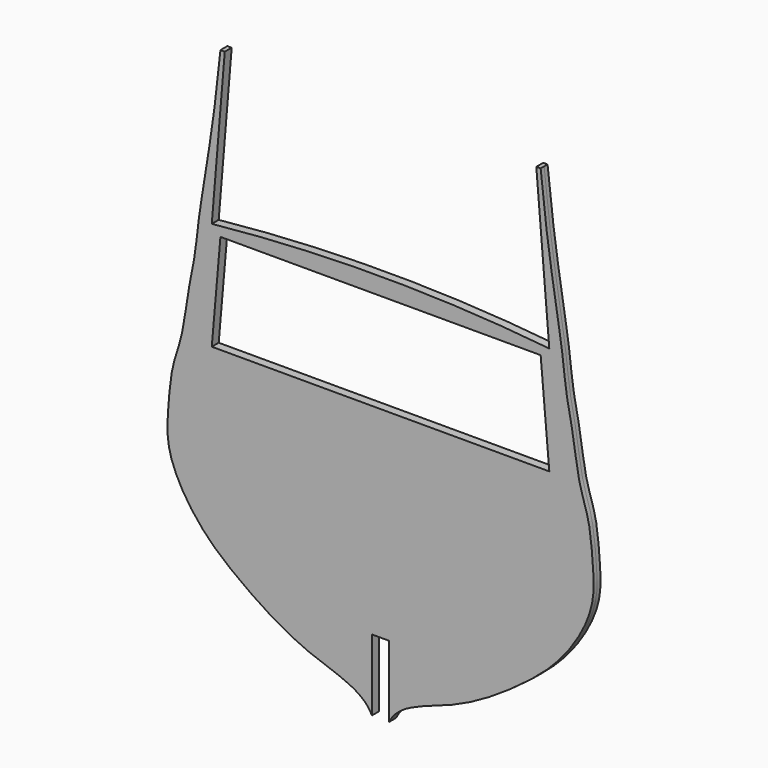
from build123d import *

# Parameters (mm, degrees)
F1_DEPTH = 1.5875


with BuildPart() as f1:
    # F0 (on Front) → F1 (new body, symmetric)
    with BuildSketch(Plane.XZ):
        with BuildLine():
            Line((3.175, -73.81875), (3.175, -100.0125))
            add(Edge.make_bspline(
                [(3.175, -100.0125), (6.411305171, -92.9262640479), (26.9420658498, -88.6211589036), (49.0400078824, -74.4057093693), (63.7640870866, -62.6882829333), (73.4820704618, -49.6854803877), (78.7868311437, -36.7047715715), (77.7948145499, -23.8788944622), (76.7778891621, -10.8979727696), (72.4415654319, -0.1681327655), (70.9267643315, 14.432954895), (67.9657805127, 26.8569873917), (66.8635331533, 39.6952632597), (64.6234435115, 52.5310514913), (62.4307577863, 66.8225497006), (60.3287666669, 80.9252885312), (58.7375, 96.8375)],
                knots=[0, 0, 0, 0, 0.0893623901, 0.1817666312, 0.2579376083, 0.328311479, 0.3933607081, 0.4563050116, 0.5194937636, 0.5795392554, 0.6467606471, 0.7102510246, 0.7734397766, 0.8367647936, 0.9000898106, 1, 1, 1, 1], degree=3))
            Line((58.7375, 96.8375), (57.15, 96.8375))
            Line((57.15, 96.8375), (61.9125, 39.6875))
            ThreePointArc((61.9125, 39.6875), (0, 42.8625), (-61.9125, 39.6875))
            Line((-61.9125, 39.6875), (-57.15, 96.8375))
            Line((-57.15, 96.8375), (-58.7375, 96.8375))
            add(Edge.make_bspline(
                [(-3.175, -100.0125), (-6.411305171, -92.9262640479), (-26.9420658498, -88.6211589036), (-49.0400078824, -74.4057093693), (-63.7640870866, -62.6882829333), (-73.4820704618, -49.6854803877), (-78.7868311437, -36.7047715715), (-77.7948145499, -23.8788944622), (-76.7778891621, -10.8979727696), (-72.4415654319, -0.1681327655), (-70.9267643315, 14.432954895), (-67.9657805127, 26.8569873917), (-66.8635331533, 39.6952632597), (-64.6234435115, 52.5310514913), (-62.4307577863, 66.8225497006), (-60.3287666669, 80.9252885312), (-58.7375, 96.8375)],
                knots=[0, 0, 0, 0, 0.0893623901, 0.1817666312, 0.2579376083, 0.328311479, 0.3933607081, 0.4563050116, 0.5194937636, 0.5795392554, 0.6467606471, 0.7102510246, 0.7734397766, 0.8367647936, 0.9000898106, 1, 1, 1, 1], degree=3))
            Line((-3.175, -100.0125), (-3.175, -73.81875))
            Line((-3.175, -73.81875), (0, -73.81875))
            Line((0, -73.81875), (3.175, -73.81875))
        make_face()
        Polygon((-58.7375, 36.5125), (0, 36.5125), (58.7375, 36.5125), (61.9125, 0), (0, 0), (-61.9125, 0), align=None, mode=Mode.SUBTRACT)
    extrude(amount=F1_DEPTH, both=True)


solid = f1.part
